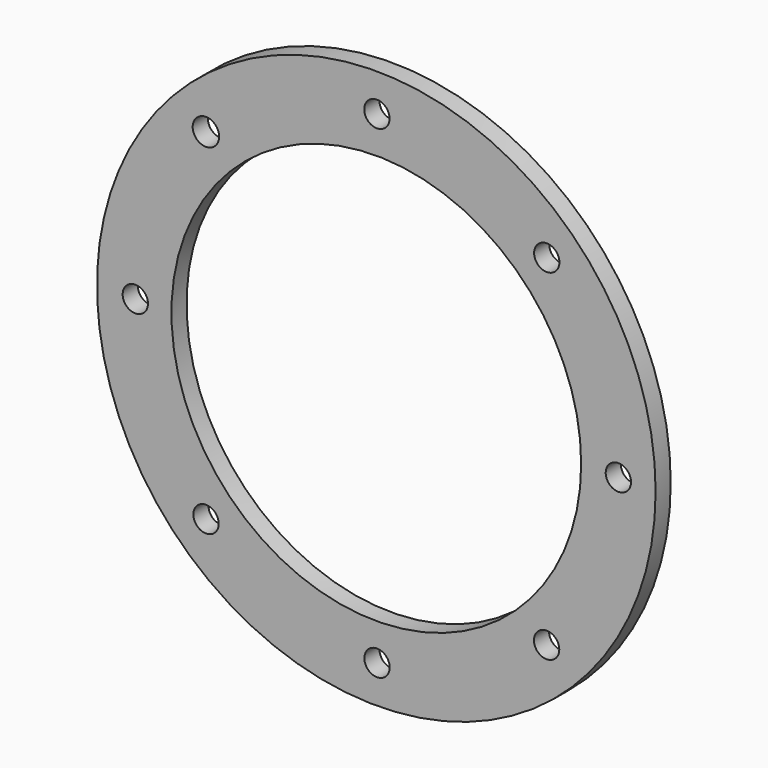
from build123d import *

# Parameters (mm, degrees)
F0_R     = 187.775596
F0_R_2   = 8.509
F0_R_3   = 8.89
F0_R_4   = 137.715625
F1_DEPTH = 12.7


with BuildPart() as f1:
    # F0 (on Front) → F1 (new body)
    with BuildSketch(Plane.XZ):
        Circle(F0_R)
        with Locations((-114.47973, -114.632003)):
            Circle(F0_R_2, mode=Mode.SUBTRACT)
        with Locations((0.474091, -162.3076)):
            Circle(F0_R_2, mode=Mode.SUBTRACT)
        with Locations((114.495097, -114.616636)):
            Circle(F0_R_2, mode=Mode.SUBTRACT)
        with Locations((-162.006407, 0.172923)):
            Circle(F0_R_2, mode=Mode.SUBTRACT)
        with Locations((-114.555905, 114.555905)):
            Circle(F0_R_3, mode=Mode.SUBTRACT)
        Circle(F0_R_4, mode=Mode.SUBTRACT)
        with Locations((162.726421, 0.172923)):
            Circle(F0_R_2, mode=Mode.SUBTRACT)
        with Locations((0.389636, 162.49998)):
            Circle(F0_R_2, mode=Mode.SUBTRACT)
        with Locations((114.59784, 114.590297)):
            Circle(F0_R_2, mode=Mode.SUBTRACT)
    extrude(amount=F1_DEPTH)


solid = f1.part
